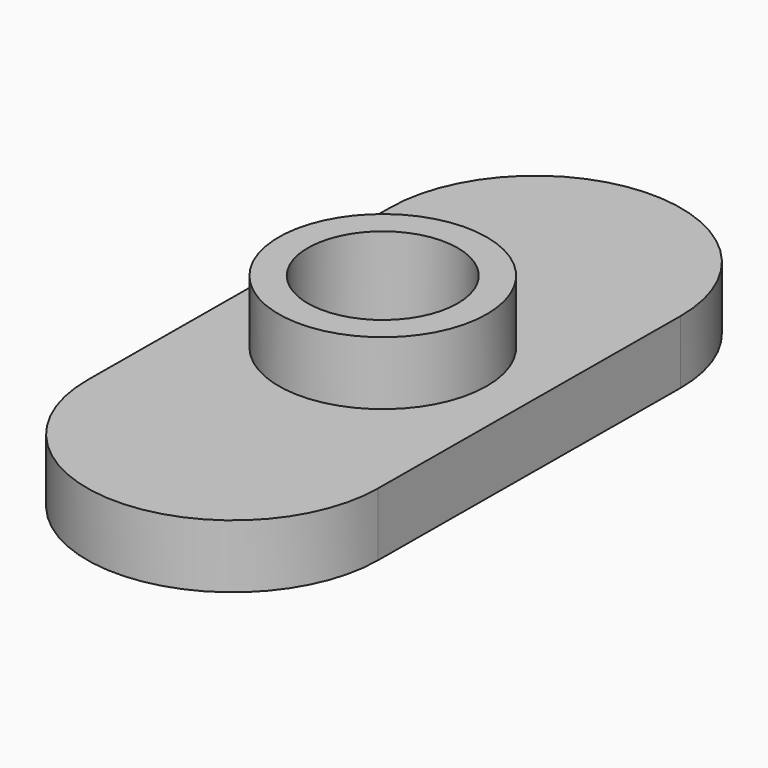
from build123d import *

# Parameters (mm, degrees)
F0_R     = 3.96875
F0_R_2   = 2.8575
F1_DEPTH = 4.826
F2_DEPTH = 2.413


with BuildPart() as f1:
    # F0 (on Top) → F1 (new body)
    with BuildSketch(Plane.XY):
        Circle(F0_R)
        Circle(F0_R_2, mode=Mode.SUBTRACT)
    extrude(amount=F1_DEPTH)

    # F0 (on Top) → F2 (join)
    with BuildSketch(Plane.XY):
        with BuildLine():
            ThreePointArc((5.649248, 7.107538), (0.129327, 12.699882), (-5.463016, 7.179962))
            Line((-5.463016, 7.179962), (-5.556132, -7.107235))
            ThreePointArc((-5.556132, -7.107235), (-0.036212, -12.699579), (5.556132, -7.179658))
            Line((5.556132, -7.179658), (5.649248, 7.107538))
        make_face()
        Circle(F0_R, mode=Mode.SUBTRACT)
    extrude(amount=F2_DEPTH)


solid = f1.part
